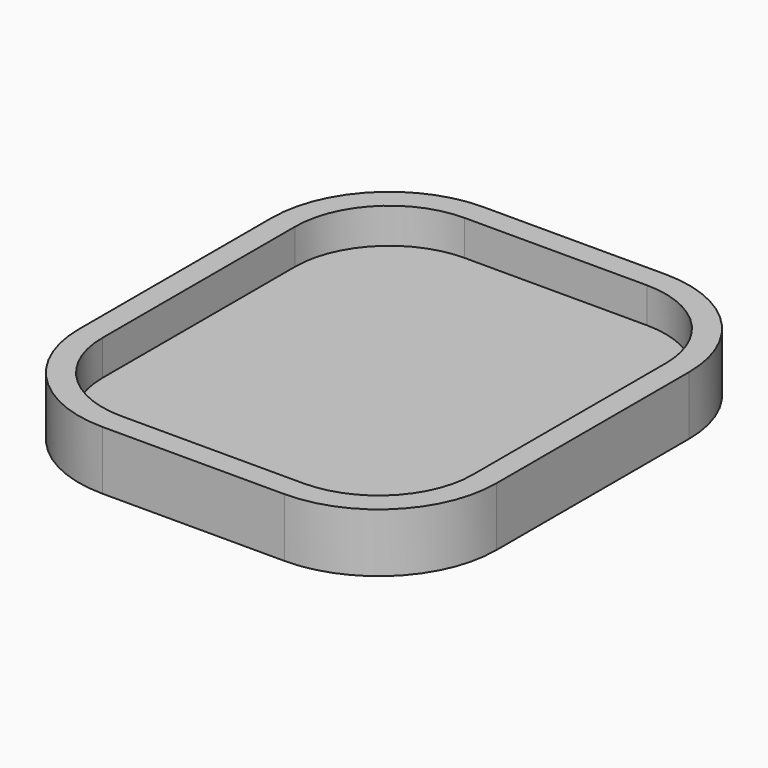
from build123d import *

# Parameters (mm, degrees)
F1_DEPTH = 2
F2_DEPTH = 5


with BuildPart() as f1:
    # F0 (on Top) → F1 (new body)
    with BuildSketch(Plane.XY):
        with BuildLine():
            Line((-21.71096, -0.986954), (-6.21096, -0.986954))
            ThreePointArc((-6.21096, -0.986954), (0.860108, 1.941978), (3.78904, 9.013046))
            Line((3.78904, 9.013046), (3.78904, 29.513046))
            ThreePointArc((3.78904, 29.513046), (0.860108, 36.584114), (-6.21096, 39.513046))
            Line((-6.21096, 39.513046), (-21.71096, 39.513046))
            ThreePointArc((-21.71096, 39.513046), (-28.782028, 36.584114), (-31.71096, 29.513046))
            Line((-31.71096, 29.513046), (-31.71096, 9.013046))
            ThreePointArc((-31.71096, 9.013046), (-28.782028, 1.941978), (-21.71096, -0.986954))
        make_face()
        with BuildLine():
            ThreePointArc((1.78904, 9.013046), (-0.554106, 3.356191), (-6.21096, 1.013046))
            Line((-6.21096, 1.013046), (-21.71096, 1.013046))
            ThreePointArc((-21.71096, 1.013046), (-27.367814, 3.356191), (-29.71096, 9.013046))
            Line((-29.71096, 9.013046), (-29.71096, 29.513046))
            ThreePointArc((-29.71096, 29.513046), (-27.367814, 35.1699), (-21.71096, 37.513046))
            Line((-21.71096, 37.513046), (-6.21096, 37.513046))
            ThreePointArc((-6.21096, 37.513046), (-0.554106, 35.1699), (1.78904, 29.513046))
            Line((1.78904, 29.513046), (1.78904, 9.013046))
        make_face(mode=Mode.SUBTRACT)
        with BuildLine():
            Line((-21.71096, 1.013046), (-6.21096, 1.013046))
            ThreePointArc((-6.21096, 1.013046), (-0.554106, 3.356191), (1.78904, 9.013046))
            Line((1.78904, 9.013046), (1.78904, 29.513046))
            ThreePointArc((1.78904, 29.513046), (-0.554106, 35.1699), (-6.21096, 37.513046))
            Line((-6.21096, 37.513046), (-21.71096, 37.513046))
            ThreePointArc((-21.71096, 37.513046), (-27.367814, 35.1699), (-29.71096, 29.513046))
            Line((-29.71096, 29.513046), (-29.71096, 9.013046))
            ThreePointArc((-29.71096, 9.013046), (-27.367814, 3.356191), (-21.71096, 1.013046))
        make_face()
    extrude(amount=F1_DEPTH)

    # F0 (on Top) → F2 (join)
    with BuildSketch(Plane.XY):
        with BuildLine():
            Line((-21.71096, -0.986954), (-6.21096, -0.986954))
            ThreePointArc((-6.21096, -0.986954), (0.860108, 1.941978), (3.78904, 9.013046))
            Line((3.78904, 9.013046), (3.78904, 29.513046))
            ThreePointArc((3.78904, 29.513046), (0.860108, 36.584114), (-6.21096, 39.513046))
            Line((-6.21096, 39.513046), (-21.71096, 39.513046))
            ThreePointArc((-21.71096, 39.513046), (-28.782028, 36.584114), (-31.71096, 29.513046))
            Line((-31.71096, 29.513046), (-31.71096, 9.013046))
            ThreePointArc((-31.71096, 9.013046), (-28.782028, 1.941978), (-21.71096, -0.986954))
        make_face()
        with BuildLine():
            ThreePointArc((1.78904, 9.013046), (-0.554106, 3.356191), (-6.21096, 1.013046))
            Line((-6.21096, 1.013046), (-21.71096, 1.013046))
            ThreePointArc((-21.71096, 1.013046), (-27.367814, 3.356191), (-29.71096, 9.013046))
            Line((-29.71096, 9.013046), (-29.71096, 29.513046))
            ThreePointArc((-29.71096, 29.513046), (-27.367814, 35.1699), (-21.71096, 37.513046))
            Line((-21.71096, 37.513046), (-6.21096, 37.513046))
            ThreePointArc((-6.21096, 37.513046), (-0.554106, 35.1699), (1.78904, 29.513046))
            Line((1.78904, 29.513046), (1.78904, 9.013046))
        make_face(mode=Mode.SUBTRACT)
    extrude(amount=F2_DEPTH)


solid = f1.part
